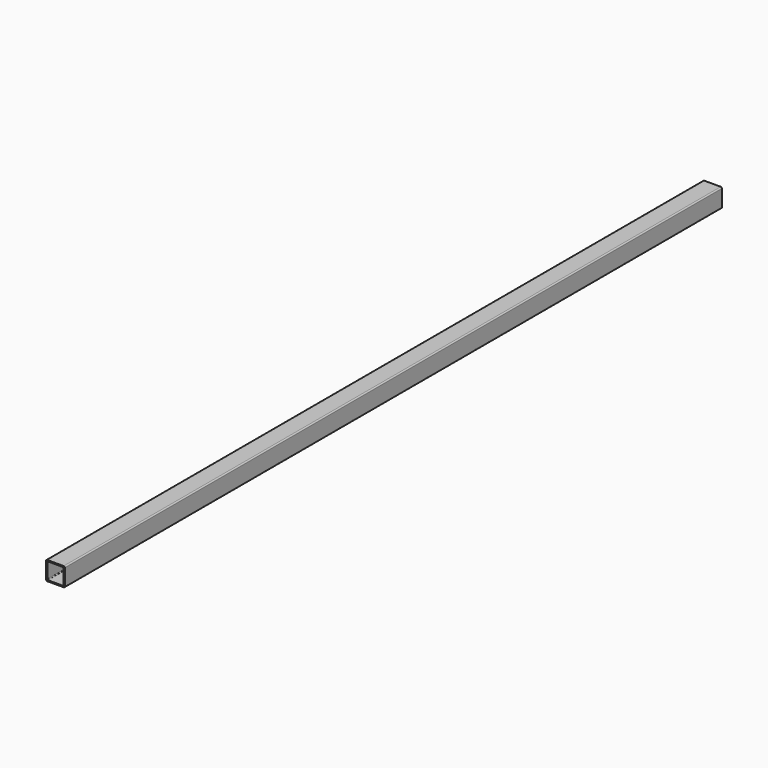
from build123d import *

# Parameters (mm, degrees)
F0_W     = 80
F0_H     = 80
F0_W_2   = 70
F0_H_2   = 70
F1_DEPTH = 3500
F2_R     = 3
F3_R     = 5


with BuildPart() as f1:
    # F0 (on Front) → F1 (new body)
    with BuildSketch(Plane.XZ):
        Rectangle(F0_W, F0_H)
        Rectangle(F0_W_2, F0_H_2, mode=Mode.SUBTRACT)
    extrude(amount=F1_DEPTH)

    # F2
    f2_edges = [f1.edges().sort_by_distance(p)[0] for p in [
        (35, -1750, -35),
        (-35, -1750, -35),
        (35, -1750, 35),
        (-35, -1750, 35),
    ]]
    fillet(f2_edges, radius=F2_R)

    # F3
    f3_edges = [f1.edges().sort_by_distance(p)[0] for p in [
        (40, -1750, 40),
        (-40, -1750, 40),
        (-40, -1750, -40),
        (40, -1750, -40),
    ]]
    fillet(f3_edges, radius=F3_R)


solid = f1.part
